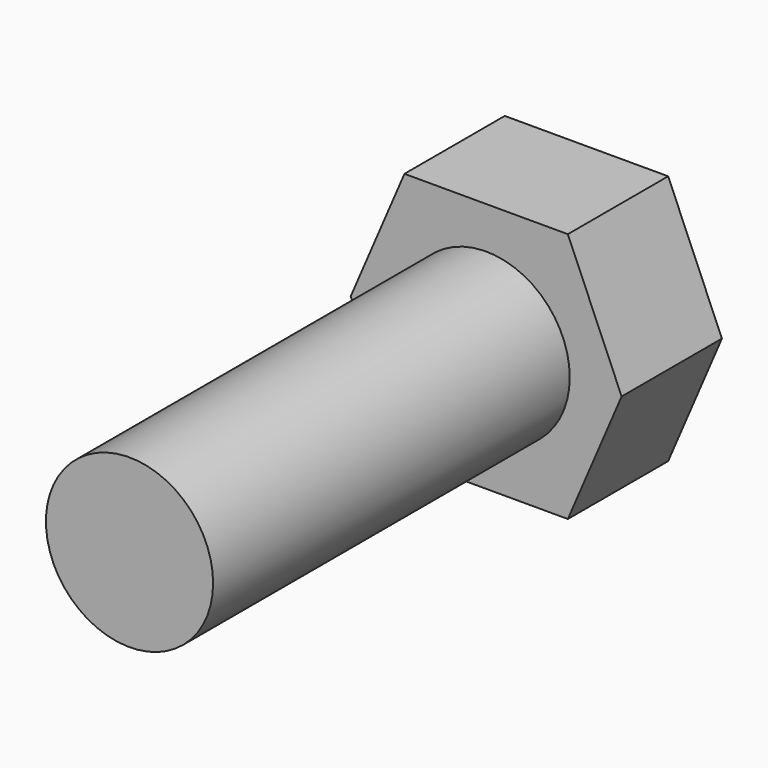
from build123d import *

# Parameters (mm, degrees)
F1_DEPTH = 7.14375
F2_R     = 4.7625
F3_DEPTH = 25.4


with BuildPart() as f1:
    # F0 (on Front) → F1 (new body)
    with BuildSketch(Plane.XZ):
        Polygon((17.46378, 7.14375), (8.153306, 7.14375), (5.090442, 0), (8.153306, -7.14375), (17.46378, -7.14375), (20.526644, 0), align=None)
    extrude(amount=F1_DEPTH)

    # F2 (on face) → F3 (join)
    with BuildSketch(Plane.XZ.offset(7.14375)):
        with Locations((12.808543, 0)):
            Circle(F2_R)
    extrude(amount=F3_DEPTH)


solid = f1.part
